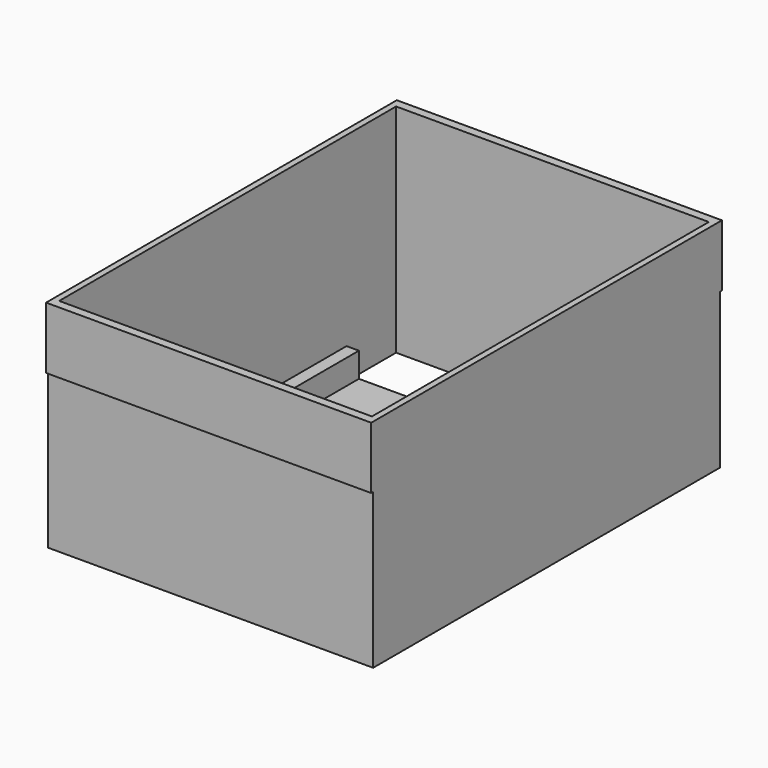
from build123d import *

# Parameters (mm, degrees)
F0_W     = 66.675
F0_H     = 88.9
F1_DEPTH = 44.45
F2_T     = -1.27
F4_DEPTH = 5.08
F5_W     = 66.675
F5_H     = 12.7
F6_DEPTH = 0.5
F7_W     = 66.675
F7_H     = 12.6965791702
F8_DEPTH = 0.5
F9_DEPTH = 25.4


with BuildPart() as f1:
    # F0 (on Top) → F1 (new body)
    with BuildSketch(Plane.XY):
        with Locations((-1.1231470853, 10.8568438743)):
            Rectangle(F0_W, F0_H)
    extrude(amount=F1_DEPTH)

    # F2
    f2_openings = [f1.faces().sort_by_distance(p)[0] for p in [
        (-1.123147, 10.856844, 44.45),
    ]]
    offset(amount=F2_T, openings=f2_openings)

    # F3 (on face) → F4 (join)
    with BuildSketch(Plane.XY.offset(1.27)):
        Polygon((30.9443529147, 41.3368438743), (28.4043529147, 41.3368438743), (28.4043529147, -0.1921561257), (28.4043529147, -3.3671561257), (28.4043529147, -9.4631561257), (30.9443529147, -9.4631561257), align=None)
        Polygon((-30.6506470853, 41.3368438743), (-33.1906470853, 41.3368438743), (-33.1906470853, -9.4631561257), (-30.6506470853, -9.4631561257), (-30.6506470853, -3.3671561257), (-30.6506470853, -0.1921561257), align=None)
    extrude(amount=F4_DEPTH)

    # F5 (on face) → F6 (join)
    with BuildSketch(Plane(origin=(0, 55.3068438743, 0), x_dir=(-1, 0, 0), z_dir=(0, 1, 0))):
        with Locations((1.1231470853, 38.1)):
            Rectangle(F5_W, F5_H)
    extrude(amount=F6_DEPTH)

    # F7 (on face) → F8 (join)
    with BuildSketch(Plane.XZ.offset(33.5931561257)):
        with Locations((-1.1231470853, 38.1017104149)):
            Rectangle(F7_W, F7_H)
    extrude(amount=F8_DEPTH)

    # F3 (on face) → F9 (cut)
    with BuildSketch(Plane.XY.offset(1.27)):
        Polygon((-33.1906470853, 54.0368438743), (-33.1906470853, 41.3368438743), (-30.6506470853, 41.3368438743), (28.4043529147, 41.3368438743), (30.9443529147, 41.3368438743), (30.9443529147, 54.0368438743), align=None)
    extrude(amount=-F9_DEPTH, mode=Mode.SUBTRACT)


solid = f1.part
